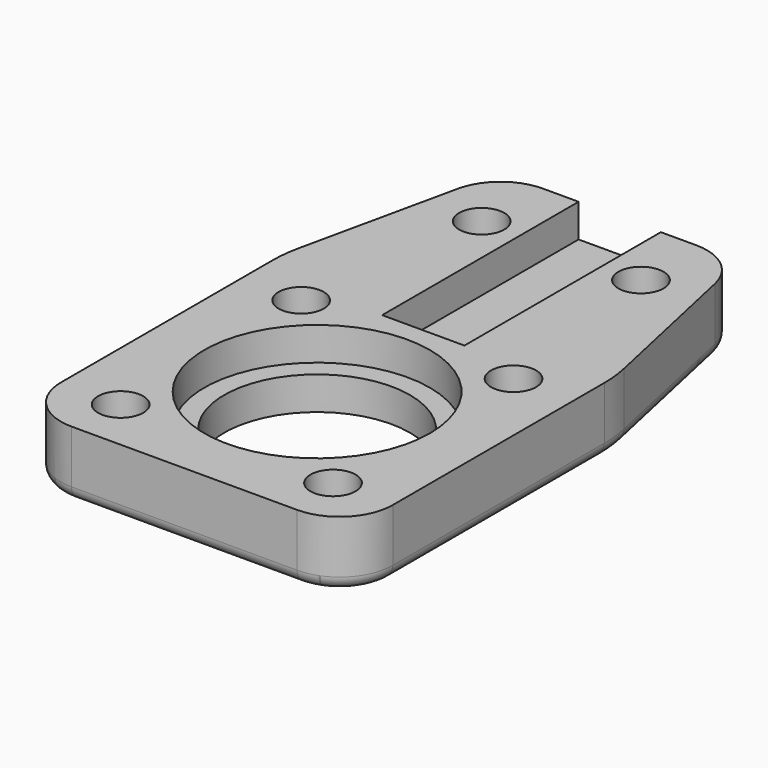
from build123d import *

# Parameters (mm, degrees)
SKETCH_R        = 7
PAD_DEPTH       = 5
SKETCH001_R     = 8.5
SKETCH001_W     = 6.2
SKETCH001_H     = 20
POCKET_DEPTH    = 2.5
FILLET_R        = 4
FILLET001_R     = 4
POCKET001_DEPTH = 2.4
SKETCH003_R     = 1.7
POCKET002_DEPTH = 2.4
FILLET002_R     = 4
FILLET003_R     = 4
FILLET004_R     = 10
FILLET005_R     = 10
FILLET006_R     = 1


with BuildPart() as part:
    # Sketch → Pad (new body)
    with BuildSketch(Plane.XY):
        Polygon((-12.5, -12.5), (12.5, -12.5), (12.5, 12.5), (9, 28.5), (-9, 28.5), (-12.5, 12.5), align=None)
        Circle(SKETCH_R, mode=Mode.SUBTRACT)
    extrude(amount=PAD_DEPTH)

    # Sketch001 → Pocket (cut)
    with BuildSketch(Plane.XY.offset(5)):
        Circle(SKETCH001_R)
        with Locations((0, 20)):
            Rectangle(SKETCH001_W, SKETCH001_H)
    extrude(amount=-POCKET_DEPTH, mode=Mode.SUBTRACT)

    # Fillet
    fillet_edges = [part.edges().sort_by_distance(p)[0] for p in [
        (-12.5, -12.5, 2.5),
    ]]
    fillet(fillet_edges, radius=FILLET_R)

    # Fillet001
    fillet001_edges = [part.edges().sort_by_distance(p)[0] for p in [
        (12.5, -12.5, 2.5),
    ]]
    fillet(fillet001_edges, radius=FILLET001_R)

    # Sketch002 → Pocket001 (cut)
    with BuildSketch(Plane(origin=(0, 0, 0), x_dir=(1, 0, 0), z_dir=(0, 0, -1))):
        Polygon((-9.616581, 11.3), (-11.233162, 8.5), (-9.616581, 5.7), (-6.383419, 5.7), (-4.766838, 8.5), (-6.383419, 11.3), align=None)
        Polygon((6.383419, 11.3), (4.766838, 8.5), (6.383419, 5.7), (9.616581, 5.7), (11.233162, 8.5), (9.616581, 11.3), align=None)
        Polygon((-9.616581, -5.7), (-11.233162, -8.5), (-9.616581, -11.3), (-6.383419, -11.3), (-4.766838, -8.5), (-6.383419, -5.7), align=None)
        Polygon((6.383419, -5.7), (4.766838, -8.5), (6.383419, -11.3), (9.616581, -11.3), (11.233162, -8.5), (9.616581, -5.7), align=None)
        Polygon((-7.616581, -20.2), (-9.233162, -23), (-7.616581, -25.8), (-4.383419, -25.8), (-2.766838, -23), (-4.383419, -20.2), align=None)
        Polygon((4.383419, -20.2), (2.766838, -23), (4.383419, -25.8), (7.616581, -25.8), (9.233162, -23), (7.616581, -20.2), align=None)
    extrude(amount=-POCKET001_DEPTH, mode=Mode.SUBTRACT)

    # Sketch003 → Pocket002 (cut)
    with BuildSketch(Plane.XY.offset(5)):
        with Locations((-8, 8.5)):
            Circle(SKETCH003_R)
        with Locations((8, 8.5)):
            Circle(SKETCH003_R)
        with Locations((-8, -8.5)):
            Circle(SKETCH003_R)
        with Locations((8, -8.5)):
            Circle(SKETCH003_R)
        with Locations((-6, 23)):
            Circle(SKETCH003_R)
        with Locations((6, 23)):
            Circle(SKETCH003_R)
    extrude(amount=-POCKET002_DEPTH, mode=Mode.SUBTRACT)

    # Fillet002
    fillet002_edges = [part.edges().sort_by_distance(p)[0] for p in [
        (9, 28.5, 2.5),
    ]]
    fillet(fillet002_edges, radius=FILLET002_R)

    # Fillet003
    fillet003_edges = [part.edges().sort_by_distance(p)[0] for p in [
        (-9, 28.5, 2.5),
    ]]
    fillet(fillet003_edges, radius=FILLET003_R)

    # Fillet004
    fillet004_edges = [part.edges().sort_by_distance(p)[0] for p in [
        (12.5, 12.5, 2.5),
    ]]
    fillet(fillet004_edges, radius=FILLET004_R)

    # Fillet005
    fillet005_edges = [part.edges().sort_by_distance(p)[0] for p in [
        (-12.5, 12.5, 2.5),
    ]]
    fillet(fillet005_edges, radius=FILLET005_R)

    # Fillet006
    fillet006_edges = [part.edges().sort_by_distance(p)[0] for p in [
        (-12.5, 1.459515, 0),
    ]]
    fillet(fillet006_edges, radius=FILLET006_R)


solid = part.part
